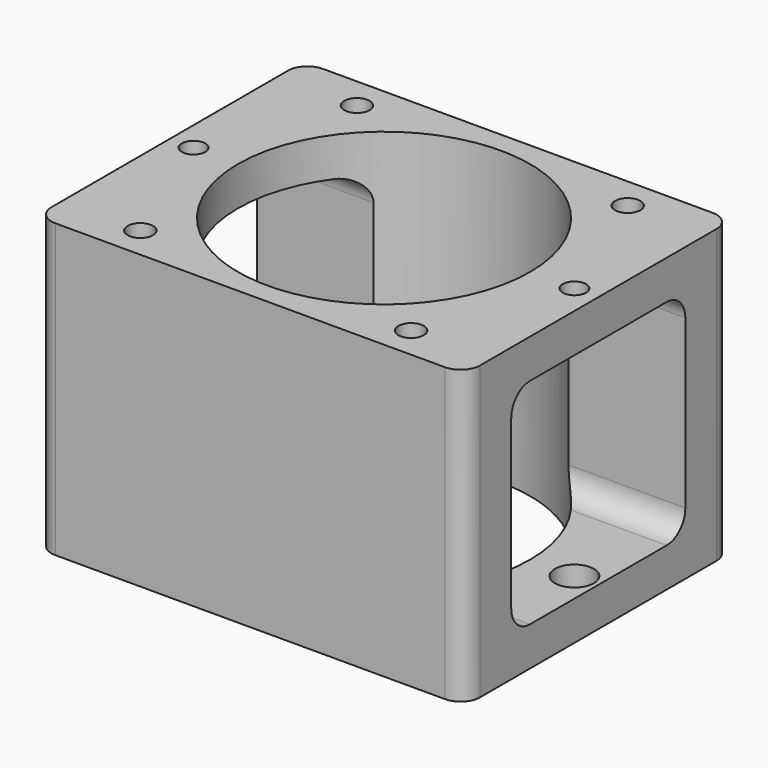
from build123d import *

# Parameters (mm, degrees)
F0_R          = 3.25
F0_R_2        = 5
F0_R_3        = 37.5
F0_R_4        = 3
F1_DEPTH      = 75
F3_DEPTH      = 129.5235
F3_DEPTH_BACK = 58.3597
F4_DEPTH      = 40.69625


with BuildPart() as f1:
    # F0 (on Top) → F1 (new body)
    with BuildSketch(Plane.XY):
        with BuildLine():
            Line((50, 42.925), (-50, 42.925))
            ThreePointArc((-50, 42.925), (-53.535534, 41.460534), (-55, 37.925))
            Line((-55, 37.925), (-55, -37.925))
            ThreePointArc((-55, -37.925), (-53.535534, -41.460534), (-50, -42.925))
            Line((-50, -42.925), (50, -42.925))
            ThreePointArc((50, -42.925), (53.535534, -41.460534), (55, -37.925))
            Line((55, -37.925), (55, 37.925))
            ThreePointArc((55, 37.925), (53.535534, 41.460534), (50, 42.925))
        make_face()
        with Locations((-34.75, -34.745)):
            Circle(F0_R, mode=Mode.SUBTRACT)
        with Locations((34.75, -34.745)):
            Circle(F0_R, mode=Mode.SUBTRACT)
        with Locations((-48.88, 0)):
            Circle(F0_R_2, mode=Mode.SUBTRACT)
        with Locations((-34.75, 34.745)):
            Circle(F0_R, mode=Mode.SUBTRACT)
        Circle(F0_R_3, mode=Mode.SUBTRACT)
        with Locations((48.87, 0)):
            Circle(F0_R_2, mode=Mode.SUBTRACT)
        with Locations((34.75, 34.745)):
            Circle(F0_R, mode=Mode.SUBTRACT)
        with Locations((48.87, 0)):
            Circle(F0_R_2)
        with Locations((48.87, 0)):
            Circle(F0_R_4, mode=Mode.SUBTRACT)
        with Locations((-48.88, 0)):
            Circle(F0_R_2)
        with Locations((-48.88, 0)):
            Circle(F0_R_4, mode=Mode.SUBTRACT)
    extrude(amount=F1_DEPTH)

    # F2 (on face) → F3 (cut, two sides)
    with BuildSketch(Plane(origin=(-55, 0, 0), x_dir=(0, -1, 0), z_dir=(-1, 0, 0))) as f3_sk:
        with BuildLine():
            Line((21.925, 65), (-21.925, 65))
            ThreePointArc((-21.925, 65), (-26.167641, 63.242641), (-27.925, 59))
            Line((-27.925, 59), (-27.925, 16))
            ThreePointArc((-27.925, 16), (-26.167641, 11.757359), (-21.925, 10))
            Line((-21.925, 10), (21.925, 10))
            ThreePointArc((21.925, 10), (26.167641, 11.757359), (27.925, 16))
            Line((27.925, 16), (27.925, 59))
            ThreePointArc((27.925, 59), (26.167641, 63.242641), (21.925, 65))
        make_face()
    extrude(amount=-F3_DEPTH, mode=Mode.SUBTRACT)
    extrude(f3_sk.sketch, amount=-F3_DEPTH_BACK, mode=Mode.SUBTRACT)

    # F0 (on Top) → F4 (cut)
    with BuildSketch(Plane.XY):
        with Locations((-48.88, 0)):
            Circle(F0_R_2)
        with Locations((-48.88, 0)):
            Circle(F0_R_4, mode=Mode.SUBTRACT)
        with Locations((48.87, 0)):
            Circle(F0_R_2)
        with Locations((48.87, 0)):
            Circle(F0_R_4, mode=Mode.SUBTRACT)
    extrude(amount=F4_DEPTH, mode=Mode.SUBTRACT)


solid = f1.part
